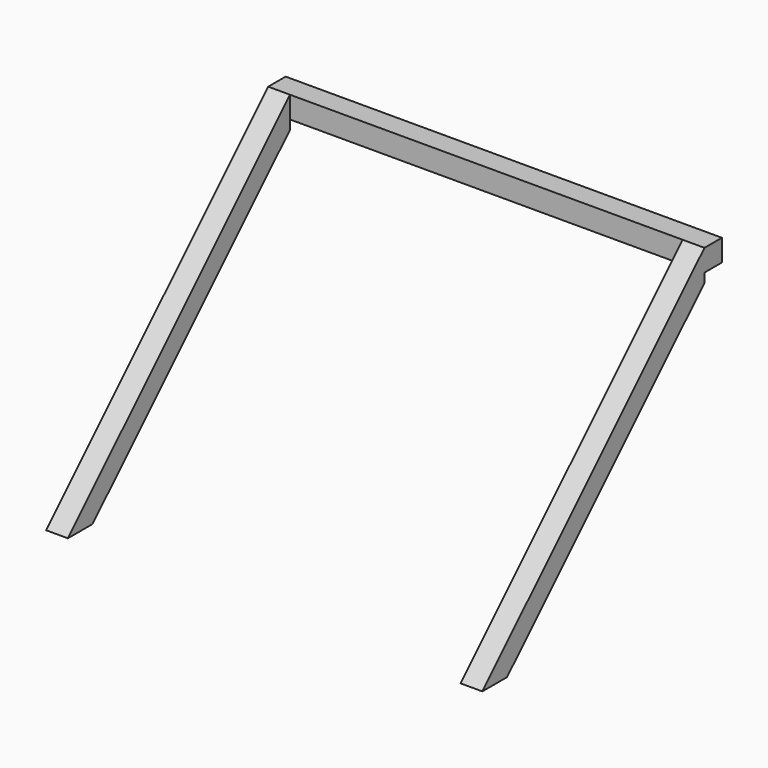
from build123d import *

# Parameters (mm, degrees)
F2_DEPTH = 25.4
F3_W     = 25.4
F3_H     = 25.4
F4_DEPTH = 254


with BuildPart() as f2:
    # F1 (on offset) → F2 (new body)
    with BuildSketch(Plane.YZ.offset(228.6)):
        Polygon((323.28922, 323.28922), (0, 0), (35.921024, 0), (323.28922, 287.368196), align=None)
    extrude(amount=F2_DEPTH)

    # F3 (on Right) → F4 (join, through all)
    with BuildSketch(Plane.YZ):
        with Locations((335.98922, 310.58922)):
            Rectangle(F3_W, F3_H)
    extrude(amount=F4_DEPTH)

    # F5: F2 across plane


with BuildPart() as f2_1:
    add(f2.part)
    add(f2.part.mirror(Plane.YZ))


solid = f2_1.part
